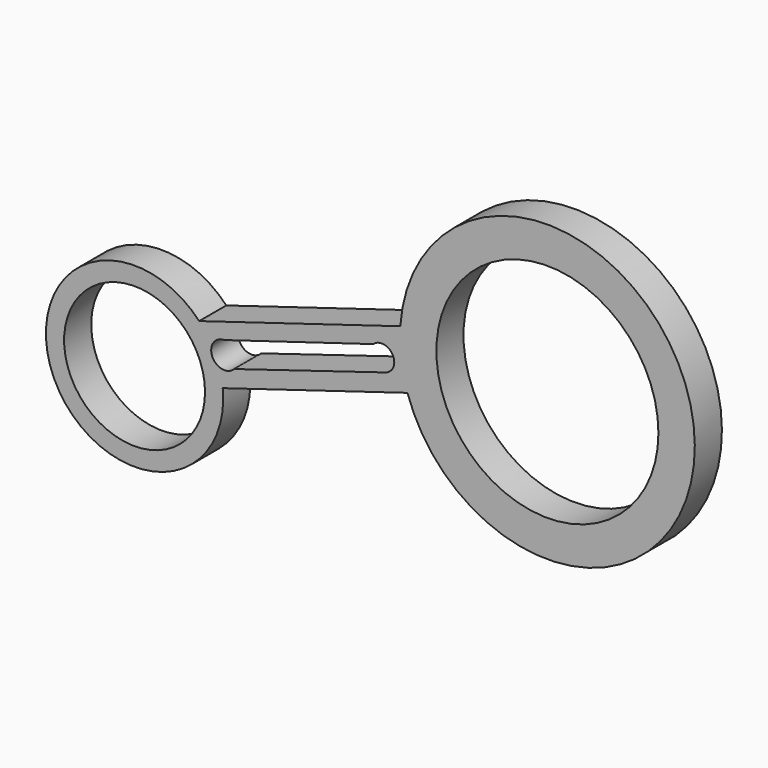
from build123d import *

# Parameters (mm, degrees)
F0_R        = 14.25831
F0_R_2      = 22.469568
F1_DEPTH    = 6.858
F1_FACE_R   = 14.25831
F1_FACE_R_2 = 22.469568
F3_DEPTH    = 51.562


with BuildPart() as f1:
    # F0 (on Front) → F1 (new body)
    with BuildSketch(Plane.XZ):
        with BuildLine():
            Line((-12.215332, 47.053497), (-52.917511, 34.734328))
            ThreePointArc((-52.917511, 34.734328), (-82.304308, 14.977358), (-48.153338, 24.338603))
            Line((-48.153338, 24.338603), (-10.768532, 35.653716))
            ThreePointArc((-10.768532, 35.653716), (47.15239, 48.796433), (-12.215332, 47.053497))
        make_face()
        with Locations((-65.994643, 22.451784)):
            Circle(F0_R, mode=Mode.SUBTRACT)
        with Locations((17.553231, 45.039865)):
            Circle(F0_R_2, mode=Mode.SUBTRACT)
    extrude(amount=F1_DEPTH)

    # F2 (on Front) + F1_face (on face) → F3 (cut)
    with BuildSketch(Plane.XZ):
        with BuildLine():
            Line((-17.678859, 42.090312), (-47.776841, 33.02855))
            ThreePointArc((-47.776841, 33.02855), (-50.269829, 29.278588), (-45.835037, 28.497672))
            Line((-45.835037, 28.497672), (-15.089784, 37.883066))
            ThreePointArc((-15.089784, 37.883066), (-13.809394, 41.571259), (-17.678859, 42.090312))
        make_face()
    with BuildSketch(Plane(origin=(-8.49041, -6.858, 38.801754), x_dir=(1, 0, 0), z_dir=(0, -1, 0))):
        with BuildLine():
            Line((-39.662928, -14.46315), (-2.278122, -3.148038))
            ThreePointArc((-2.278122, -3.148038), (55.6428, 9.99468), (-3.724922, 8.251743))
            Line((-3.724922, 8.251743), (-44.427102, -4.067426))
            ThreePointArc((-44.427102, -4.067426), (-73.813899, -23.824395), (-39.662928, -14.46315))
        make_face()
        with Locations((-57.504233, -16.349969)):
            Circle(F1_FACE_R, mode=Mode.SUBTRACT)
        with Locations((26.043641, 6.238111)):
            Circle(F1_FACE_R_2, mode=Mode.SUBTRACT)
    extrude(amount=F3_DEPTH, mode=Mode.SUBTRACT)


solid = f1.part
